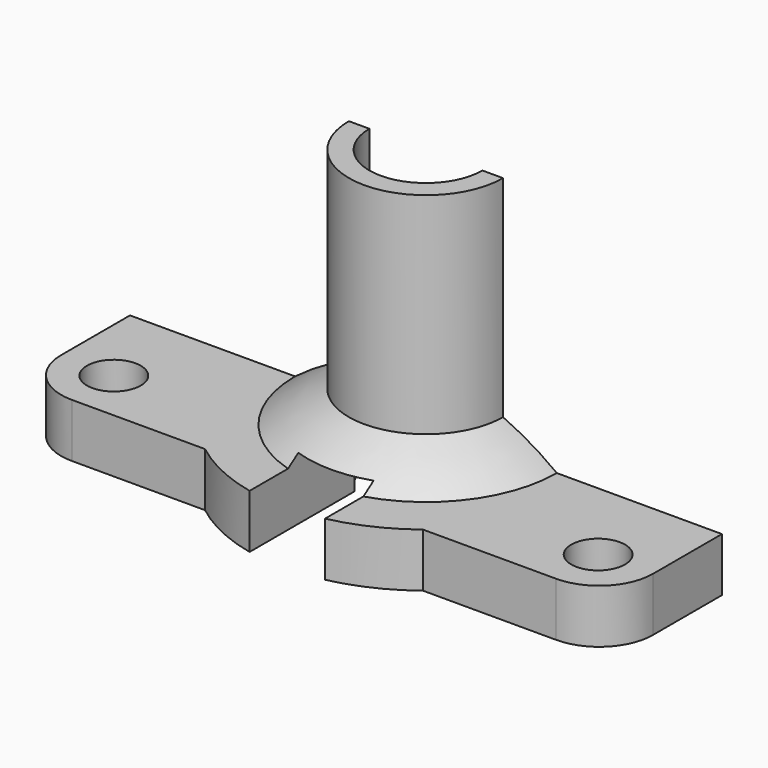
from build123d import *

# Parameters (mm, degrees)
F1_DEPTH       = 10
F2_R           = 10
F3_R           = 5
F4_DEPTH       = 25
F6_ANGLE       = 180
F8_DEPTH       = 45
F9_R           = 10.5
F10_DEPTH      = 50
F10_DEPTH_BACK = 50
F11_W          = 14
F11_H          = 25.2948729652
F12_DEPTH      = 50


with BuildPart() as f1:
    # F0 (on Top) → F1 (new body)
    with BuildSketch(Plane.XY):
        with BuildLine():
            Line((-32.9545475543, 0), (-55, 0))
            Line((-55, 0), (-55, -26))
            Line((-55, -26), (-20.2485111676, -26))
            ThreePointArc((-20.2485111676, -26), (-29.6081300379, -14.4693068308), (-32.9545475543, 0))
        make_face()
        with BuildLine():
            Line((32.9545475543, 0), (-32.9545475543, 0))
            ThreePointArc((-32.9545475543, 0), (-29.6081300379, -14.4693068308), (-20.2485111676, -26))
            Line((-20.2485111676, -26), (20.2485111676, -26))
            ThreePointArc((20.2485111676, -26), (29.6081300379, -14.4693068308), (32.9545475543, 0))
        make_face()
        with BuildLine():
            Line((55, 0), (32.9545475543, 0))
            ThreePointArc((32.9545475543, 0), (29.6081300379, -14.4693068308), (20.2485111676, -26))
            Line((20.2485111676, -26), (55, -26))
            Line((55, -26), (55, 0))
        make_face()
        with BuildLine():
            Line((20.2485111676, -26), (-20.2485111676, -26))
            ThreePointArc((-20.2485111676, -26), (0, -32.9545475543), (20.2485111676, -26))
        make_face()
    extrude(amount=-F1_DEPTH)

    # F2
    f2_edges = [f1.edges().sort_by_distance(p)[0] for p in [
        (-55, -26, -5),
        (55, -26, -5),
    ]]
    fillet(f2_edges, radius=F2_R)

    # F3 (on Top) → F4 (cut)
    with BuildSketch(Plane.XY):
        with Locations((-45, -16.2500012666)):
            Circle(F3_R)
        with Locations((45, -16.2500012666)):
            Circle(F3_R)
    extrude(amount=-F4_DEPTH, mode=Mode.SUBTRACT)

    # F5 (on Front) → F6 (revolve)
    with BuildSketch(Plane.XZ):
        with BuildLine():
            Line((0, 9.8314080073), (0, 0))
            Line((0, 0), (24.3154959095, 0))
            ThreePointArc((24.3154959095, 0), (12.8138743622, 6.5384663753), (0, 9.8314080073))
        make_face()
    revolve(axis=Axis((0, 0, 4.9157040036), (0, 0, -1)), revolution_arc=F6_ANGLE)

    # F7 (on Top) → F8 (join)
    with BuildSketch(Plane.XY):
        with BuildLine():
            ThreePointArc((-14.3181821331, 0), (0, -14.3181821331), (14.3181821331, 0))
            Line((14.3181821331, 0), (-14.3181821331, 0))
        make_face()
    extrude(amount=F8_DEPTH)

    # F9 (on Top) → F10 (cut, two sides)
    with BuildSketch(Plane.XY) as f10_sk:
        Circle(F9_R)
    extrude(amount=-F10_DEPTH, mode=Mode.SUBTRACT)
    extrude(f10_sk.sketch, amount=F10_DEPTH_BACK, mode=Mode.SUBTRACT)

    # F11 (on Front) → F12 (cut)
    with BuildSketch(Plane.XZ):
        with Locations((0, -11.0227272962)):
            Rectangle(F11_W, F11_H)
    extrude(amount=F12_DEPTH, mode=Mode.SUBTRACT)


solid = f1.part
